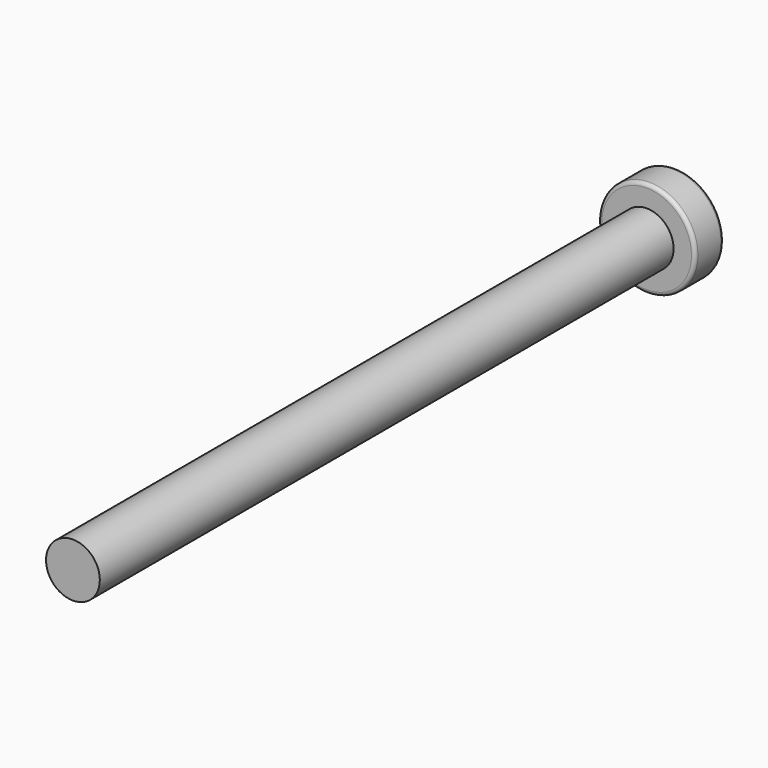
from build123d import *

# Parameters (mm, degrees)
FILLET_R     = 0.2
POCKET_DEPTH = 1.3
FILLET001_R  = 0.2


with BuildPart() as part:
    # Sketch → Revolution (revolve)
    with BuildSketch(Plane.XY):
        Polygon((0, 0), (0, 42), (2.7, 42), (2.7, 40), (1.5, 40), (1.5, 0), align=None)
    revolve(axis=Axis((0, 0, 0), (0, 1, 0)))

    # Fillet
    fillet_edges = [part.edges().sort_by_distance(p)[0] for p in [
        (-2.7, 40, 0),
        (-2.7, 42, 0),
    ]]
    fillet(fillet_edges, radius=FILLET_R)

    # Sketch001 (on Face1 of Fillet) → Pocket (cut)
    with BuildSketch(Plane(origin=(0, 42, 0), x_dir=(-1, 0, 0), z_dir=(0, 1, 0))):
        Polygon((0.5, 1.5), (0.5, 0.5), (1.5, 0.5), (1.5, -0.5), (0.5, -0.5), (0.5, -1.5), (-0.5, -1.5), (-0.5, -0.5), (-1.5, -0.5), (-1.5, 0.5), (-0.5, 0.5), (-0.5, 1.5), align=None)
    extrude(amount=-POCKET_DEPTH, mode=Mode.SUBTRACT)

    # Fillet001
    fillet001_edges = [part.edges().sort_by_distance(p)[0] for p in [
        (0, 42, -1.5),
        (0.5, 42, -1),
        (1, 42, -0.5),
        (1.5, 42, 0),
        (1, 42, 0.5),
        (0.5, 42, 1),
        (-0.5, 42, 1),
        (0, 42, 1.5),
        (-1.5, 42, 0),
        (-1, 42, -0.5),
        (-0.5, 42, -1),
    ]]
    fillet(fillet001_edges, radius=FILLET001_R)


solid = part.part
